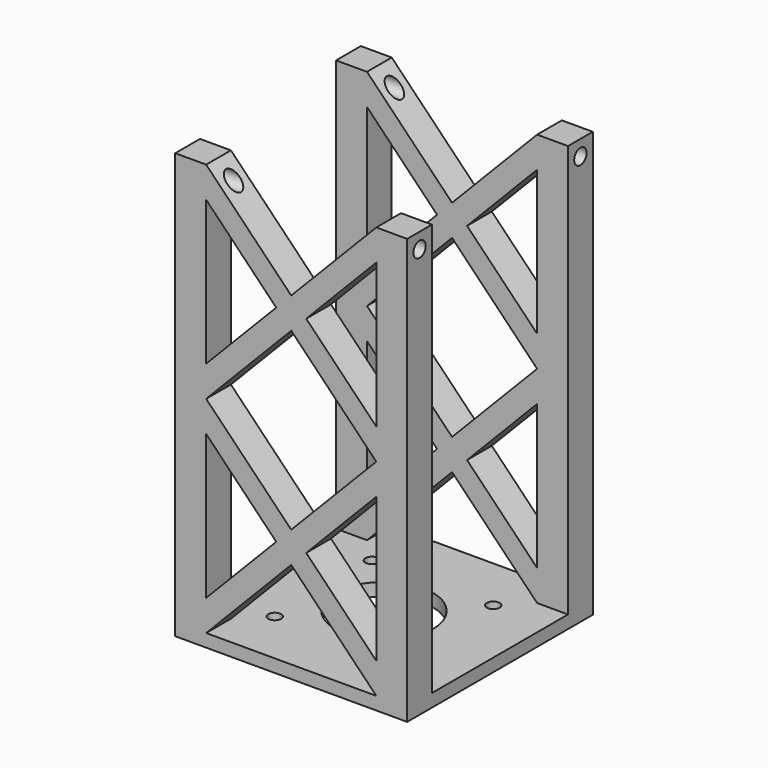
from build123d import *

# Parameters (mm, degrees)
F0_W      = 90
F0_H      = 90
F0_R      = 2.5
F0_R_2    = 19
F1_DEPTH  = 5
F3_W      = 12
F3_H      = 12
F4_DEPTH  = 160
F7_DEPTH  = 12
F10_DEPTH = 12
F12_R     = 3
F13_DEPTH = 90.001


with BuildPart() as f1:
    # F0 (on Top) → F1 (new body)
    with BuildSketch(Plane.XY):
        Rectangle(F0_W, F0_H)
        with Locations((-23.55, -23.55)):
            Circle(F0_R, mode=Mode.SUBTRACT)
        with Locations((23.55, -23.55)):
            Circle(F0_R, mode=Mode.SUBTRACT)
        with Locations((-23.55, 23.55)):
            Circle(F0_R, mode=Mode.SUBTRACT)
        Circle(F0_R_2, mode=Mode.SUBTRACT)
        with Locations((23.55, 23.55)):
            Circle(F0_R, mode=Mode.SUBTRACT)
    extrude(amount=F1_DEPTH)

    # F3 (on offset) → F4 (join)
    with BuildSketch(Plane.XY.offset(5)):
        with Locations((-39, -39)):
            Rectangle(F3_W, F3_H)
        with Locations((39, -39)):
            Rectangle(F3_W, F3_H)
        with Locations((39, 39)):
            Rectangle(F3_W, F3_H)
        with Locations((-39, 39)):
            Rectangle(F3_W, F3_H)
    extrude(amount=F4_DEPTH)

    # F6 (on offset) → F7 (join)
    with BuildSketch(Plane.XZ.offset(45)):
        Polygon((0, 51), (5.8235294118, 45), (33, 73), (33, 85), align=None)
        Polygon((0, 119), (33, 85), (33, 97), (5.8235294118, 125), align=None)
        Polygon((0, 131), (5.8235294118, 125), (33, 153), (33, 165), align=None)
        Polygon((-33, 153), (-5.8235294118, 125), (0, 131), (-33, 165), align=None)
        Polygon((-33, 97), (-33, 85), (0, 119), (-5.8235294118, 125), align=None)
        Polygon((-5.8235294118, 125), (0, 119), (5.8235294118, 125), (0, 131), align=None)
        Polygon((-5.8235294118, 45), (0, 39), (5.8235294118, 45), (0, 51), align=None)
        Polygon((-33, 73), (-5.8235294118, 45), (0, 51), (-33, 85), align=None)
        Polygon((-33, 17), (-33, 5), (0, 39), (-5.8235294118, 45), align=None)
        Polygon((5.8235294118, 45), (0, 39), (33, 5), (33, 17), align=None)
    extrude(amount=-F7_DEPTH)

    # F9 (on offset) → F10 (join)
    with BuildSketch(Plane(origin=(0, 45, 0), x_dir=(-1, 0, 0), z_dir=(0, 1, 0))):
        Polygon((-33, 153), (-5.8235294118, 125), (0, 131), (-33, 165), align=None)
        Polygon((-5.8235294118, 125), (0, 119), (5.8235294118, 125), (0, 131), align=None)
        Polygon((0, 131), (5.8235294118, 125), (33, 153), (33, 165), align=None)
        Polygon((0, 119), (33, 85), (33, 97), (5.8235294118, 125), align=None)
        Polygon((-33, 85), (0, 119), (-5.8235294118, 125), (-33, 97), align=None)
        Polygon((-5.8235294118, 45), (0, 51), (-33, 85), (-33, 73), align=None)
        Polygon((0, 39), (-5.8235294118, 45), (-33, 17), (-33, 5), align=None)
        Polygon((33, 73), (33, 85), (0, 51), (5.8235294118, 45), align=None)
        Polygon((33, 17), (5.8235294118, 45), (0, 39), (33, 5), align=None)
        Polygon((5.8235294118, 45), (0, 51), (-5.8235294118, 45), (0, 39), align=None)
    extrude(amount=-F10_DEPTH)

    # F12 (on offset) → F13 (cut, through all)
    with BuildSketch(Plane.YZ.offset(45)):
        with Locations((-39, 159)):
            Circle(F12_R)
        with Locations((39, 159)):
            Circle(F12_R)
    extrude(amount=-F13_DEPTH, mode=Mode.SUBTRACT)


solid = f1.part
